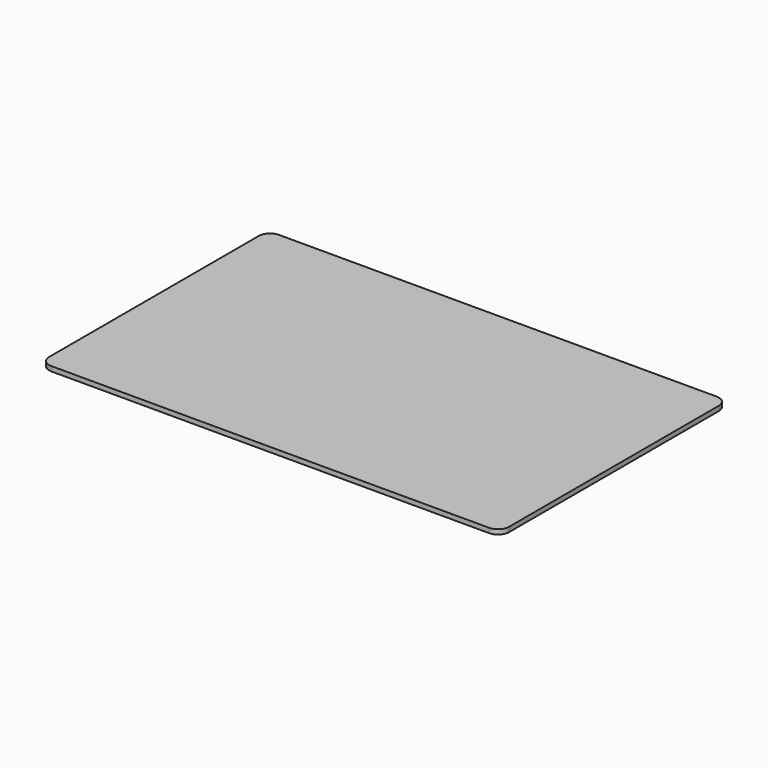
from build123d import *

# Parameters (mm, degrees)
F0_W     = 292
F0_H     = 25
F0_H_2   = 15
F1_DEPTH = 3


with BuildPart() as f1:
    # F0 (on Top) → F1 (new body)
    with BuildSketch(Plane.XY):
        with BuildLine():
            Line((-146, 159), (-146, 141))
            Line((-146, 141), (146, 141))
            Line((146, 141), (146, 159))
            ThreePointArc((146, 159), (143.949747, 163.949747), (139, 166))
            Line((139, 166), (-139, 166))
            ThreePointArc((-139, 166), (-143.949747, 163.949747), (-146, 159))
        make_face()
        with Locations((0, 128.5)):
            Rectangle(F0_W, F0_H)
        with Locations((0, 103.5)):
            Rectangle(F0_W, F0_H)
        with Locations((0, 78.5)):
            Rectangle(F0_W, F0_H)
        with Locations((0, 53.5)):
            Rectangle(F0_W, F0_H)
        with Locations((0, 28.5)):
            Rectangle(F0_W, F0_H)
        with Locations((0, 8.5)):
            Rectangle(F0_W, F0_H_2)
        with BuildLine():
            ThreePointArc((-146, -7.5), (-143.949747, -12.449747), (-139, -14.5))
            Line((-139, -14.5), (139, -14.5))
            ThreePointArc((139, -14.5), (143.949747, -12.449747), (146, -7.5))
            Line((146, -7.5), (146, 1))
            Line((146, 1), (-146, 1))
            Line((-146, 1), (-146, -7.5))
        make_face()
    extrude(amount=F1_DEPTH)


solid = f1.part
